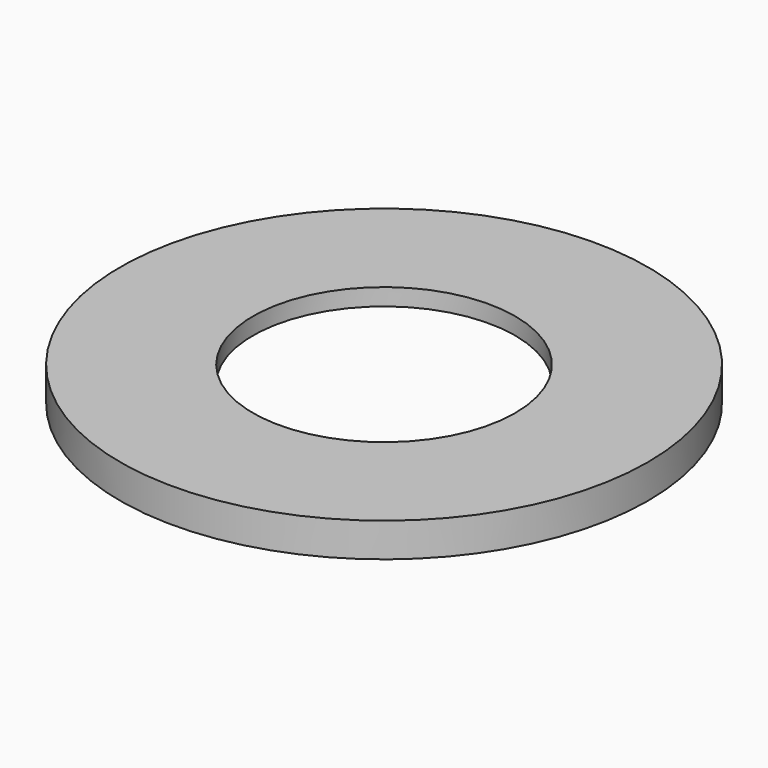
from build123d import *

# Parameters (mm, degrees)
SKETCH_R     = 155
SKETCH_R_2   = 77
PAD_DEPTH    = 20
SKETCH001_R  = 150
POCKET_DEPTH = 10


with BuildPart() as part:
    # Sketch → Pad (new body)
    with BuildSketch(Plane.XY):
        Circle(SKETCH_R)
        Circle(SKETCH_R_2, mode=Mode.SUBTRACT)
    extrude(amount=PAD_DEPTH)

    # Sketch001 (on Face3 of Pad) → Pocket (cut)
    with BuildSketch(Plane(origin=(0, 0, 0), x_dir=(1, 0, 0), z_dir=(0, 0, -1))):
        Circle(SKETCH001_R)
    extrude(amount=-POCKET_DEPTH, mode=Mode.SUBTRACT)


solid = part.part
